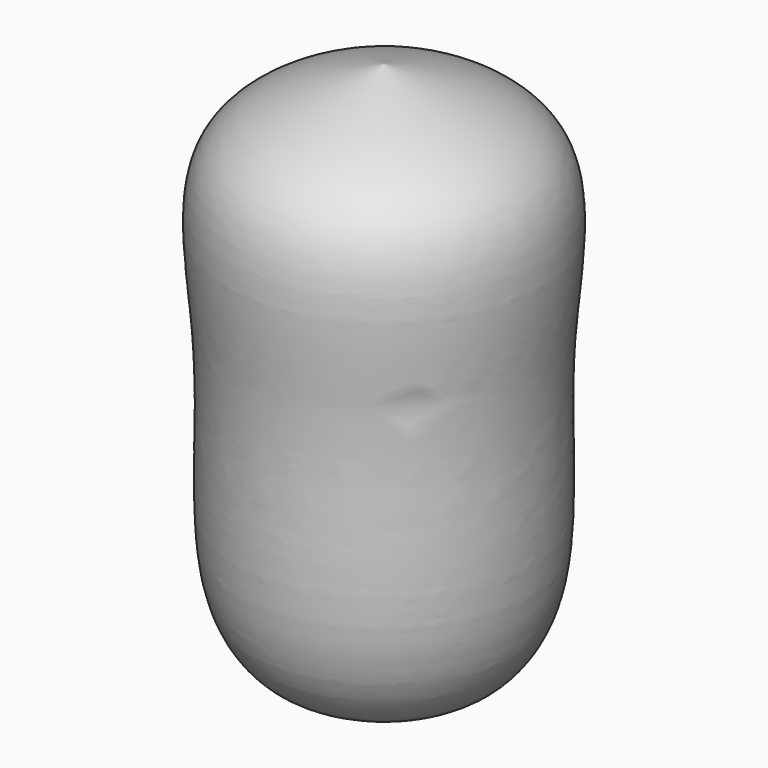
from build123d import *


with BuildPart() as f1:
    # F0 (on Front) → F1 (revolve)
    with BuildSketch(Plane.XZ):
        with BuildLine():
            add(Edge.make_bspline(
                [(0, -37.1291190386), (-3.6694395478, -37.5376766235), (-11.2715039682, -38.3840949073), (-20.5455245209, -26.8114443492), (-17.3643348764, -0.3529625341), (-23.2138425926, 24.9318348495), (-7.6387155146, 29.5103361244), (0, 31.755849719)],
                knots=[0, 0, 0, 0, 0.1528271054, 0.3166154893, 0.5627447028, 0.7855506183, 1, 1, 1, 1], degree=3))
            Line((0, -37.1291190386), (0, 31.755849719))
        make_face()
    revolve(axis=Axis((0, 0, -2.6866346598), (0, 0, -1)))


solid = f1.part
